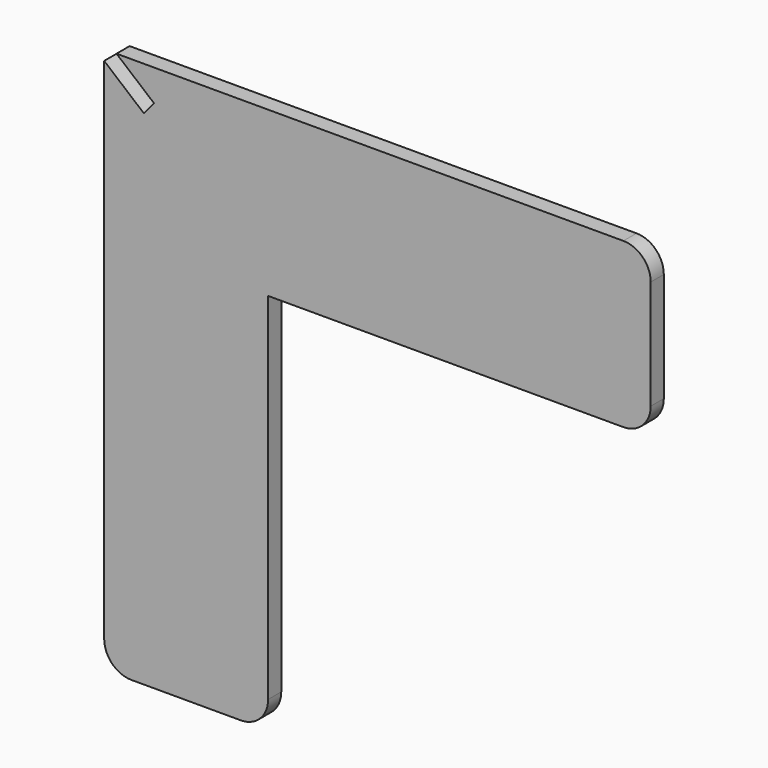
from build123d import *

# Parameters (mm, degrees)
F1_DEPTH = 3


with BuildPart() as f1:
    # F0 (on Front) → F1 (new body)
    with BuildSketch(Plane.XZ):
        with BuildLine():
            Line((65, 74.578316), (0, 74.578316))
            Line((0, 74.578316), (-27.7442, 74.578316))
            Line((-27.7442, 74.578316), (-20.87088, 68.810916))
            Line((-20.87088, 68.810916), (-22.734964, 66.589387))
            Line((-22.734964, 66.589387), (-30, 72.685476))
            Line((-30, 72.685476), (-30, 44.578316))
            Line((-30, 44.578316), (-30, -20.421684))
            ThreePointArc((-30, -20.421684), (-28.535534, -23.957218), (-25, -25.421684))
            Line((-25, -25.421684), (-5, -25.421684))
            ThreePointArc((-5, -25.421684), (-1.464466, -23.957218), (0, -20.421684))
            Line((0, -20.421684), (0, 44.578316))
            Line((0, 44.578316), (65, 44.578316))
            ThreePointArc((65, 44.578316), (68.535534, 46.042782), (70, 49.578316))
            Line((70, 49.578316), (70, 69.578316))
            ThreePointArc((70, 69.578316), (68.535534, 73.11385), (65, 74.578316))
        make_face()
        with BuildLine():
            Line((65, 74.578316), (0, 74.578316))
            Line((0, 74.578316), (-27.7442, 74.578316))
            Line((-27.7442, 74.578316), (-20.87088, 68.810916))
            Line((-20.87088, 68.810916), (-22.734964, 66.589387))
            Line((-22.734964, 66.589387), (-30, 72.685476))
            Line((-30, 72.685476), (-30, 44.578316))
            Line((-30, 44.578316), (-30, -20.421684))
            ThreePointArc((-30, -20.421684), (-28.535534, -23.957218), (-25, -25.421684))
            Line((-25, -25.421684), (-5, -25.421684))
            ThreePointArc((-5, -25.421684), (-1.464466, -23.957218), (0, -20.421684))
            Line((0, -20.421684), (0, 44.578316))
            Line((0, 44.578316), (65, 44.578316))
            ThreePointArc((65, 44.578316), (68.535534, 46.042782), (70, 49.578316))
            Line((70, 49.578316), (70, 69.578316))
            ThreePointArc((70, 69.578316), (68.535534, 73.11385), (65, 74.578316))
        make_face()
        with BuildLine():
            Line((65, 74.578316), (0, 74.578316))
            Line((0, 74.578316), (-27.7442, 74.578316))
            Line((-27.7442, 74.578316), (-20.87088, 68.810916))
            Line((-20.87088, 68.810916), (-22.734964, 66.589387))
            Line((-22.734964, 66.589387), (-30, 72.685476))
            Line((-30, 72.685476), (-30, 44.578316))
            Line((-30, 44.578316), (-30, -20.421684))
            ThreePointArc((-30, -20.421684), (-28.535534, -23.957218), (-25, -25.421684))
            Line((-25, -25.421684), (-5, -25.421684))
            ThreePointArc((-5, -25.421684), (-1.464466, -23.957218), (0, -20.421684))
            Line((0, -20.421684), (0, 44.578316))
            Line((0, 44.578316), (65, 44.578316))
            ThreePointArc((65, 44.578316), (68.535534, 46.042782), (70, 49.578316))
            Line((70, 49.578316), (70, 69.578316))
            ThreePointArc((70, 69.578316), (68.535534, 73.11385), (65, 74.578316))
        make_face()
    extrude(amount=F1_DEPTH)


solid = f1.part
